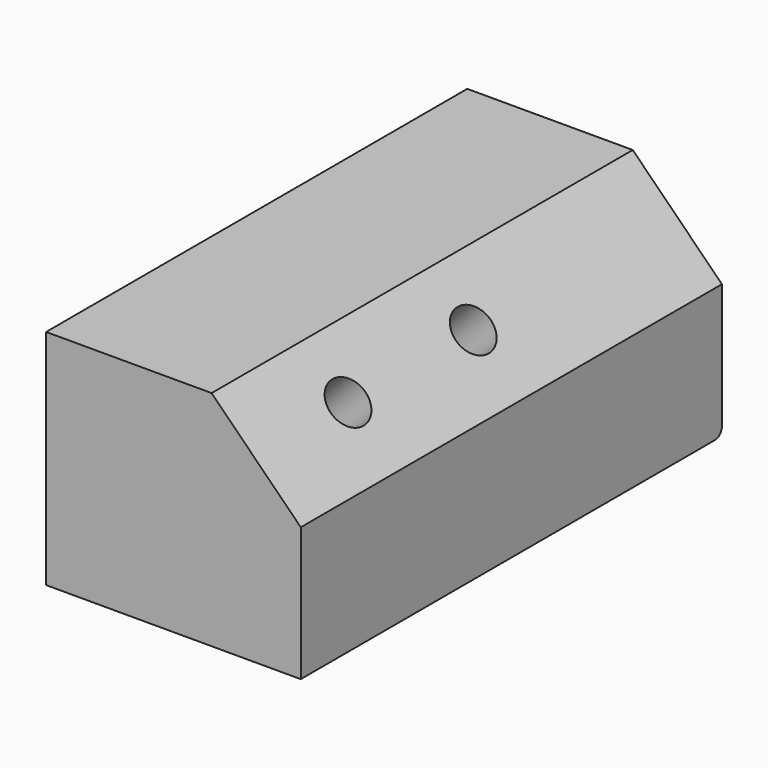
from build123d import *

# Parameters (mm, degrees)
F0_W     = 29.0246267504
F0_H     = 60
F1_DEPTH = 25.4
F2_SIZE  = 10.16
F4_D     = 5
F5_R     = 1


with BuildPart() as f1:
    # F0 (on Top) → F1 (new body)
    with BuildSketch(Plane.XY):
        with Locations((-14.5123133752, 30)):
            Rectangle(F0_W, F0_H)
    extrude(amount=F1_DEPTH)

    # F2
    f2_edges = [f1.edges().sort_by_distance(p)[0] for p in [
        (0, 30, 25.4),
    ]]
    chamfer(f2_edges, length=F2_SIZE)

    # F4 (through all)
    with Locations(Plane(origin=(7.62, 0, 7.62), x_dir=(0, 1, 0), z_dir=(0.7071067812, 0, 0.7071067812))):
        with Locations((13.411517255, 18.3293204755), (31.2496982515, 18.3293204755)):
            Hole(F4_D / 2)

    # F5
    f5_edges = [f1.edges().sort_by_distance(p)[0] for p in [
        (-14.512313, 60, 0),
    ]]
    fillet(f5_edges, radius=F5_R)


solid = f1.part
